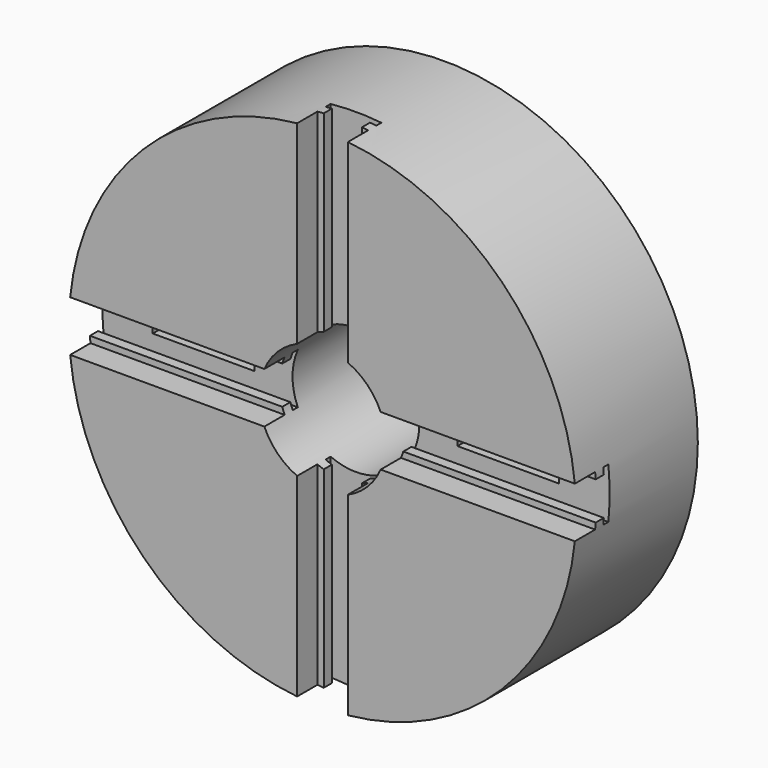
from build123d import *

# Parameters (mm, degrees)
F0_R     = 127
F0_R_2   = 31.774252
F1_DEPTH = 76.2
F3_DEPTH = 127
F5_DEPTH = 127
F6_R     = 113.822054
F6_R_2   = 38.1
F7_DEPTH = 50.8
F8_W     = 50.940839
F8_H     = 7.62
F8_W_2   = 7.62
F8_H_2   = 50.8
F9_DEPTH = 76.2


with BuildPart() as f1:
    # F0 (on Front) → F1 (new body)
    with BuildSketch(Plane.XZ):
        Circle(F0_R)
        Circle(F0_R_2, mode=Mode.SUBTRACT)
    extrude(amount=F1_DEPTH)

    # F2 (on Right) → F3 (cut, symmetric)
    with BuildSketch(Plane.YZ):
        Polygon((-63.5, 12.7), (-76.2, 12.7), (-76.2, -12.7), (-63.5, -12.7), (-63.5, -9.525), (-58.42, -9.525), (-58.42, -12.7), (-55.245, -12.7), (-55.245, 12.7), (-58.42, 12.7), (-58.42, 9.525), (-63.5, 9.525), align=None)
    extrude(amount=F3_DEPTH, both=True, mode=Mode.SUBTRACT)

    # F4 (on Top) → F5 (cut, symmetric)
    with BuildSketch(Plane.XY):
        Polygon((12.7, -76.2), (12.7, -63.5), (9.525, -63.5), (9.524411, -58.42), (12.728042, -58.42), (12.728042, -55.245), (-12.7, -55.245), (-12.7, -58.42), (-9.52559, -58.42), (-9.525, -63.5), (-12.7, -63.5), (-12.7, -76.2), align=None)
    extrude(amount=F5_DEPTH, both=True, mode=Mode.SUBTRACT)

    # F6 (on face) → F7 (cut)
    with BuildSketch(Plane(origin=(0, 0, 0), x_dir=(-1, 0, 0), z_dir=(0, 1, 0))):
        Circle(F6_R)
        Circle(F6_R_2, mode=Mode.SUBTRACT)
    extrude(amount=-F7_DEPTH, mode=Mode.SUBTRACT)

    # F8 (on Front) → F9 (cut)
    with BuildSketch(Plane.XZ):
        with Locations((76.30205, 0)):
            Rectangle(F8_W, F8_H)
        with Locations((-76.30205, 0)):
            Rectangle(F8_W, F8_H)
        with Locations((0, -76.2)):
            Rectangle(F8_W_2, F8_H_2)
        with Locations((0, 76.2)):
            Rectangle(F8_W_2, F8_H_2)
    extrude(amount=F9_DEPTH, mode=Mode.SUBTRACT)


solid = f1.part
